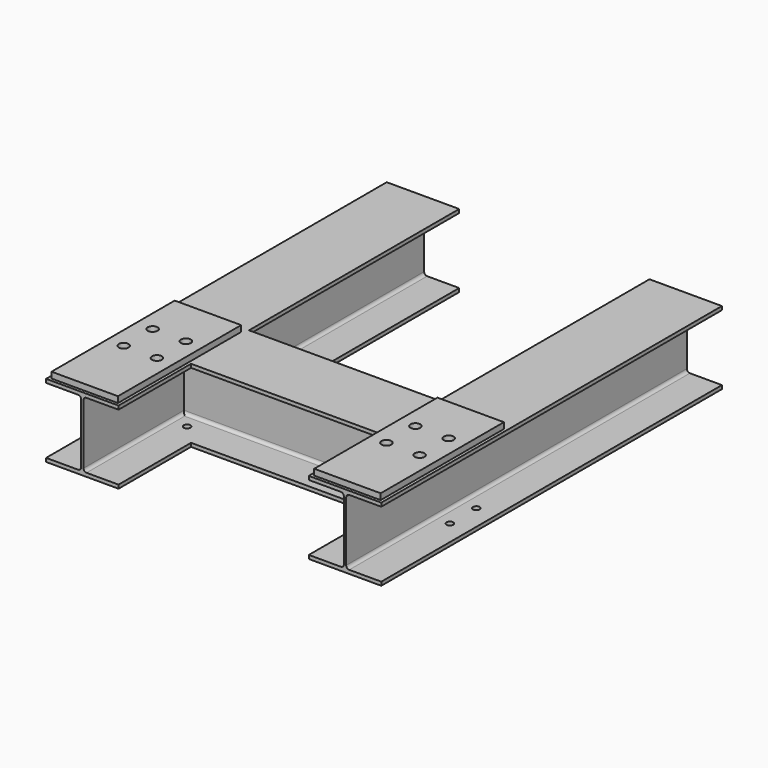
from build123d import *

# Parameters (mm, degrees)
F1_DEPTH  = 895.35
F2_W      = 279.4
F2_H      = 647.7
F3_DEPTH  = 25.4
F5_D      = 41.275
F5_DEPTH  = 76.2
F7_D      = 28.575
F7_DEPTH  = 76.2
F10_DEPTH = 552.45
F11_R     = 14.2875
F12_DEPTH = 76.2


with BuildPart() as f1:
    # F0 (on Front) → F1 (new body, symmetric)
    with BuildSketch(Plane.XZ):
        with BuildLine():
            Line((-400.05, 153.924), (-704.85, 153.924))
            Line((-704.85, 153.924), (-704.85, 138.684))
            Line((-704.85, 138.684), (-570.103, 138.684))
            ThreePointArc((-570.103, 138.684), (-561.122744, 134.964256), (-557.403, 125.984))
            Line((-557.403, 125.984), (-557.403, -125.984))
            ThreePointArc((-557.403, -125.984), (-561.122744, -134.964256), (-570.103, -138.684))
            Line((-570.103, -138.684), (-704.85, -138.684))
            Line((-704.85, -138.684), (-704.85, -153.924))
            Line((-704.85, -153.924), (-400.05, -153.924))
            Line((-400.05, -153.924), (-400.05, -138.684))
            Line((-400.05, -138.684), (-534.797, -138.684))
            ThreePointArc((-534.797, -138.684), (-543.777256, -134.964256), (-547.497, -125.984))
            Line((-547.497, -125.984), (-547.497, 125.984))
            ThreePointArc((-547.497, 125.984), (-543.777256, 134.964256), (-534.797, 138.684))
            Line((-534.797, 138.684), (-400.05, 138.684))
            Line((-400.05, 138.684), (-400.05, 153.924))
        make_face()
    extrude(amount=F1_DEPTH, both=True)

    # F2 (on face) → F3 (join)
    with BuildSketch(Plane.XY.offset(153.924)):
        with Locations((-552.45, -558.8)):
            Rectangle(F2_W, F2_H)
    extrude(amount=F3_DEPTH)

    # F5
    with Locations(Plane.XY.offset(179.324)):
        with Locations((-622.3, -438.15), (-482.6, -438.15), (-622.3, -590.55), (-482.6, -590.55)):
            Hole(F5_D / 2, depth=F5_DEPTH)

    # F7
    with Locations(Plane(origin=(0, 0, -153.924), x_dir=(1, 0, 0), z_dir=(0, 0, -1))):
        with Locations((-482.6, 431.8), (-482.6, 292.1), (-622.3, 431.8), (-622.3, 292.1)):
            Hole(F7_D / 2, depth=F7_DEPTH)



with BuildPart() as f8_1:
    # F8: instance of F1
    add(f1.part.mirror(Plane.YZ))


with BuildPart() as f1_1:
    add(f1.part)

    add(f8_1.part)  # F10 merges F8_1
    # F9 (on Right) → F10 (join, symmetric)
    with BuildSketch(Plane.YZ):
        with BuildLine():
            Line((-209.55, 153.924), (-514.35, 153.924))
            Line((-514.35, 153.924), (-514.35, 138.684))
            Line((-514.35, 138.684), (-379.603, 138.684))
            ThreePointArc((-379.603, 138.684), (-370.622744, 134.964256), (-366.903, 125.984))
            Line((-366.903, 125.984), (-366.903, -125.984))
            ThreePointArc((-366.903, -125.984), (-370.622744, -134.964256), (-379.603, -138.684))
            Line((-379.603, -138.684), (-514.35, -138.684))
            Line((-514.35, -138.684), (-514.35, -153.924))
            Line((-514.35, -153.924), (-209.55, -153.924))
            Line((-209.55, -153.924), (-209.55, -138.684))
            Line((-209.55, -138.684), (-344.297, -138.684))
            ThreePointArc((-344.297, -138.684), (-353.277256, -134.964256), (-356.997, -125.984))
            Line((-356.997, -125.984), (-356.997, 125.984))
            ThreePointArc((-356.997, 125.984), (-353.277256, 134.964256), (-344.297, 138.684))
            Line((-344.297, 138.684), (-209.55, 138.684))
            Line((-209.55, 138.684), (-209.55, 153.924))
        make_face()
    extrude(amount=F10_DEPTH, both=True)

    # F11 (on face) → F12 (cut)
    with BuildSketch(Plane(origin=(0, 0, -153.924), x_dir=(1, 0, 0), z_dir=(0, 0, -1))):
        with Locations((-482.6, 431.8)):
            Circle(F11_R)
        with Locations((-482.6, 292.1)):
            Circle(F11_R)
        with Locations((482.6, 431.8)):
            Circle(F11_R)
        with Locations((482.6, 292.1)):
            Circle(F11_R)
    extrude(amount=-F12_DEPTH, mode=Mode.SUBTRACT)


solid = f1_1.part
